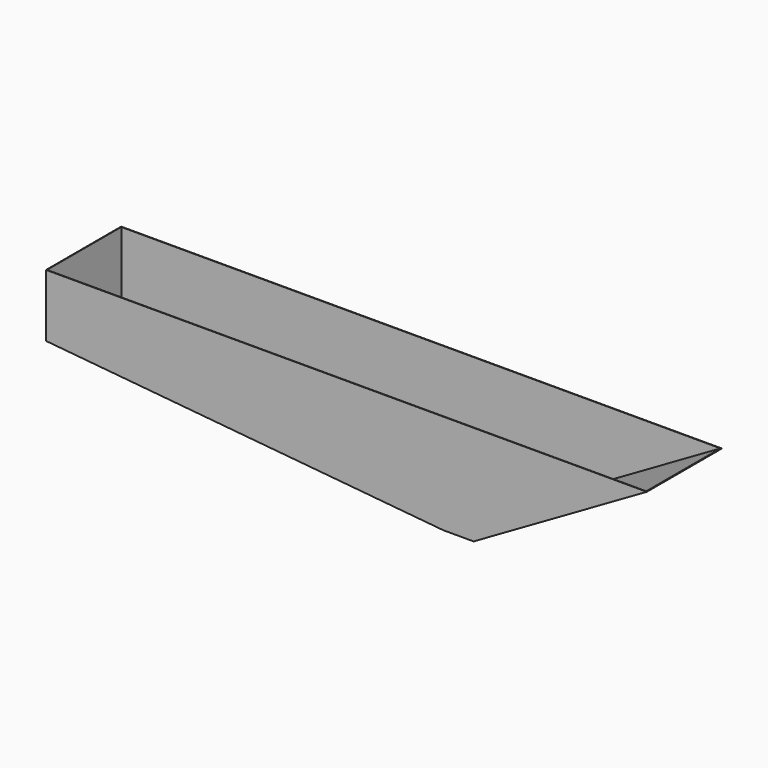
from build123d import *

# Parameters (mm, degrees)
F1_DEPTH = 375
F2_T     = -2
F3_R     = 25
F4_DEPTH = 25


with BuildPart() as f1:
    # F0 (on Front) → F1 (new body)
    with BuildSketch(Plane.XZ):
        Polygon((1321.62507, 399.443237), (-1078.37493, 399.443237), (-1078.37493, 149.443237), (508.828163, 0), (629.769089, 0), align=None)
    extrude(amount=F1_DEPTH)

    # F2
    f2_openings = [f1.faces().sort_by_distance(p)[0] for p in [
        (121.62507, -187.5, 399.443237),
    ]]
    offset(amount=F2_T, openings=f2_openings)

    # F3 (on face) → F4 (cut)
    with BuildSketch(Plane.XY.offset(2)):
        with Locations((569.07765, -187.5)):
            Circle(F3_R)
    extrude(amount=-F4_DEPTH, mode=Mode.SUBTRACT)


solid = f1.part
